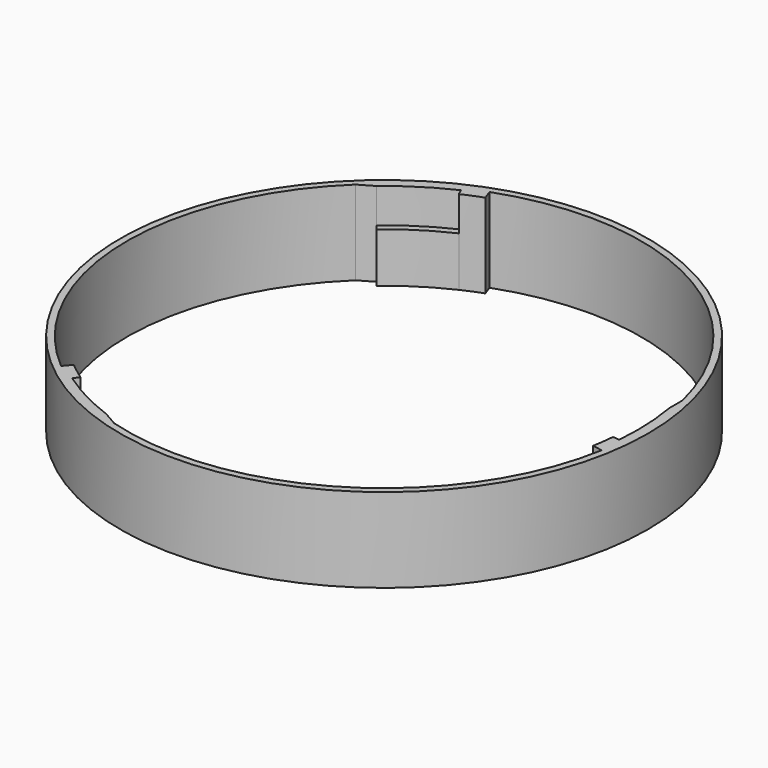
from build123d import *

# Parameters (mm, degrees)
F0_R     = 78.25
F1_DEPTH = 25
F2_DEPTH = 10.25


with BuildPart() as f1:
    # F0 (on Top) → F1 (new body)
    with BuildSketch(Plane.XY):
        Circle(F0_R)
        with BuildLine():
            ThreePointArc((-48.369768, 57.644844), (-40.431796, 63.465206), (-31.802024, 68.199661))
            Line((-31.802024, 68.199661), (-30.956788, 66.387045))
            ThreePointArc((-30.956788, 66.387045), (-28.031561, 67.674176), (-25.052975, 68.832484))
            Line((-25.052975, 68.832484), (-26.079036, 71.651562))
            ThreePointArc((-26.079036, 71.651562), (36.022176, 67.204652), (74.106783, 17.951244))
            Line((74.106783, 17.951244), (74.106783, 13.067025))
            ThreePointArc((74.106783, 13.067025), (75.178379, 3.282359), (74.963651, -6.55847))
            Line((74.963651, -6.55847), (72.971262, -6.384158))
            ThreePointArc((72.971262, -6.384158), (72.623336, -9.561044), (72.137168, -12.719729))
            Line((72.137168, -12.719729), (75.091591, -13.240674))
            ThreePointArc((75.091591, -13.240674), (40.189848, -64.798446), (-21.507159, -73.153979))
            Line((-21.507159, -73.153979), (-25.737016, -70.71187))
            ThreePointArc((-25.737016, -70.71187), (-34.746583, -66.747565), (-43.161627, -61.641191))
            Line((-43.161627, -61.641191), (-42.014474, -60.002887))
            ThreePointArc((-42.014474, -60.002887), (-44.591775, -58.113132), (-47.084192, -56.112755))
            Line((-47.084192, -56.112755), (-49.012555, -58.410889))
            ThreePointArc((-49.012555, -58.410889), (-76.212024, -2.406206), (-52.599625, 55.202735))
            Line((-52.599625, 55.202735), (-48.369768, 57.644844))
        make_face(mode=Mode.SUBTRACT)
        with BuildLine():
            ThreePointArc((74.963651, -6.55847), (75.178379, 3.282359), (74.106783, 13.067025))
            Line((74.106783, 13.067025), (72.137168, 12.719729))
            ThreePointArc((72.137168, 12.719729), (73.180282, 3.19512), (72.971262, -6.384158))
            Line((72.971262, -6.384158), (74.963651, -6.55847))
        make_face()
        with BuildLine():
            ThreePointArc((-25.052975, -68.832484), (-33.823086, -64.973544), (-42.014474, -60.002887))
            Line((-42.014474, -60.002887), (-43.161627, -61.641191))
            ThreePointArc((-43.161627, -61.641191), (-34.746583, -66.747565), (-25.737016, -70.71187))
            Line((-25.737016, -70.71187), (-25.052975, -68.832484))
        make_face()
        with BuildLine():
            Line((-30.956788, 66.387045), (-31.802024, 68.199661))
            ThreePointArc((-31.802024, 68.199661), (-40.431796, 63.465206), (-48.369768, 57.644844))
            Line((-48.369768, 57.644844), (-47.084192, 56.112755))
            ThreePointArc((-47.084192, 56.112755), (-39.357196, 61.778423), (-30.956788, 66.387045))
        make_face()
    extrude(amount=-F1_DEPTH)

    # F0 (on Top) → F2 (cut)
    with BuildSketch(Plane.XY):
        with BuildLine():
            ThreePointArc((74.963651, -6.55847), (75.178379, 3.282359), (74.106783, 13.067025))
            Line((74.106783, 13.067025), (72.137168, 12.719729))
            ThreePointArc((72.137168, 12.719729), (73.180282, 3.19512), (72.971262, -6.384158))
            Line((72.971262, -6.384158), (74.963651, -6.55847))
        make_face()
        with BuildLine():
            Line((-30.956788, 66.387045), (-31.802024, 68.199661))
            ThreePointArc((-31.802024, 68.199661), (-40.431796, 63.465206), (-48.369768, 57.644844))
            Line((-48.369768, 57.644844), (-47.084192, 56.112755))
            ThreePointArc((-47.084192, 56.112755), (-39.357196, 61.778423), (-30.956788, 66.387045))
        make_face()
        with BuildLine():
            ThreePointArc((-25.052975, -68.832484), (-33.823086, -64.973544), (-42.014474, -60.002887))
            Line((-42.014474, -60.002887), (-43.161627, -61.641191))
            ThreePointArc((-43.161627, -61.641191), (-34.746583, -66.747565), (-25.737016, -70.71187))
            Line((-25.737016, -70.71187), (-25.052975, -68.832484))
        make_face()
    extrude(amount=-F2_DEPTH, mode=Mode.SUBTRACT)


solid = f1.part
